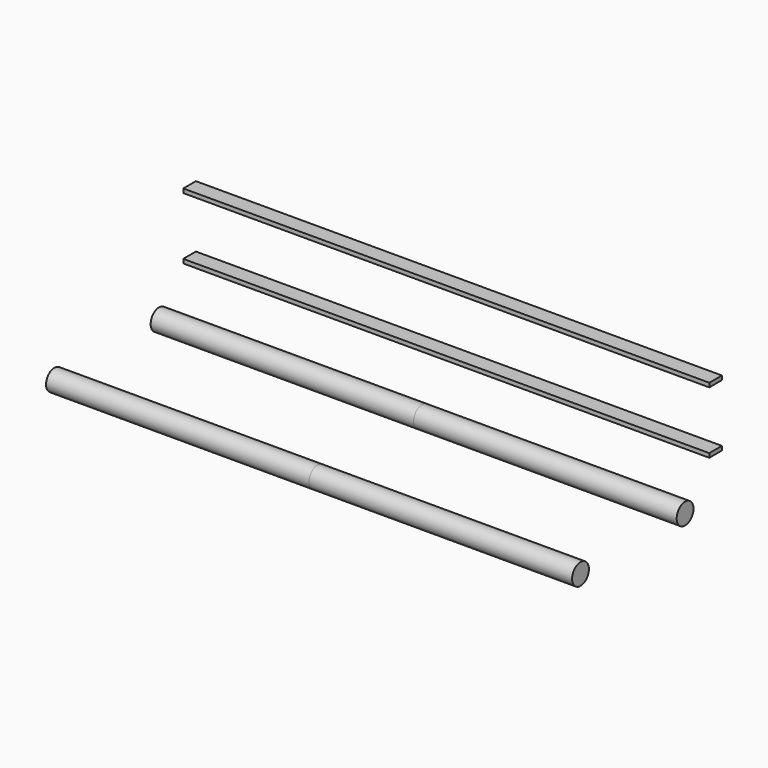
from build123d import *

# Parameters (mm, degrees)
F0_R     = 4
F0_W     = 6
F0_H     = 1.56
F1_DEPTH = 100


with BuildPart() as f1:
    # F0 (on Right) → F1 (new body, symmetric)
    with BuildSketch(Plane.YZ):
        with Locations((-24.85, 0)):
            Circle(F0_R)
        with Locations((24.85, 0)):
            Circle(F0_R)
        with Locations((39.35, 14.78)):
            Rectangle(F0_W, F0_H)
        with Locations((39.35, 38.34)):
            Rectangle(F0_W, F0_H)
    extrude(amount=F1_DEPTH, both=True)


solid = f1.part
